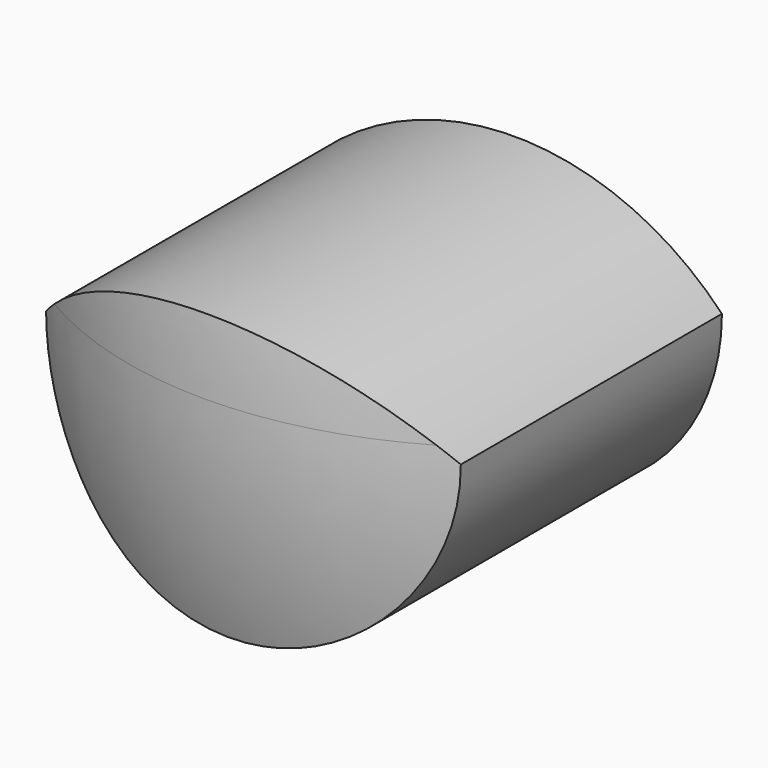
from build123d import *

# Parameters (mm, degrees)
EXTRUDE008_DEPTH = 100


with BuildPart() as body009:
    # Sketch045 → Revolution002 (revolve)
    with BuildSketch(Plane.XZ):
        with BuildLine():
            Line((0, 0), (0, 135.563389))
            ThreePointArc((23.86226, 121.281178), (13.904936, 131.720055), (0, 135.563389))
            ThreePointArc((32.577943, 87.696618), (30.229669, 105.01041), (23.86226, 121.281178))
            ThreePointArc((22.101567, 52.101534), (30.047255, 69.102202), (32.577943, 87.696618))
            ThreePointArc((22.101567, 52.101534), (13.488015, 26.476163), (18.952965, 0))
            Line((0, 0), (18.952965, 0))
        make_face()
    revolve(axis=Axis((0, 0, 0), (0, 0, 1)))


with BuildPart() as body009_1:
    # Clone010 placement: moved
    add(body009.part.moved(Location((0, -1.1, 0))))


with BuildPart() as common007:
    # Sketch056 → Extrude008 (new body)
    with BuildSketch(Plane.XZ):
        with BuildLine():
            ThreePointArc((-17.97, 86.319116), (0, 68.349116), (17.97, 86.319116))
            ThreePointArc((17.97, 86.319116), (0, 94.009169), (-17.97, 86.319116))
        make_face()
    extrude(amount=EXTRUDE008_DEPTH)

    # Common007: intersect Body009
    add(body009_1.part, mode=Mode.INTERSECT)


solid = common007.part
